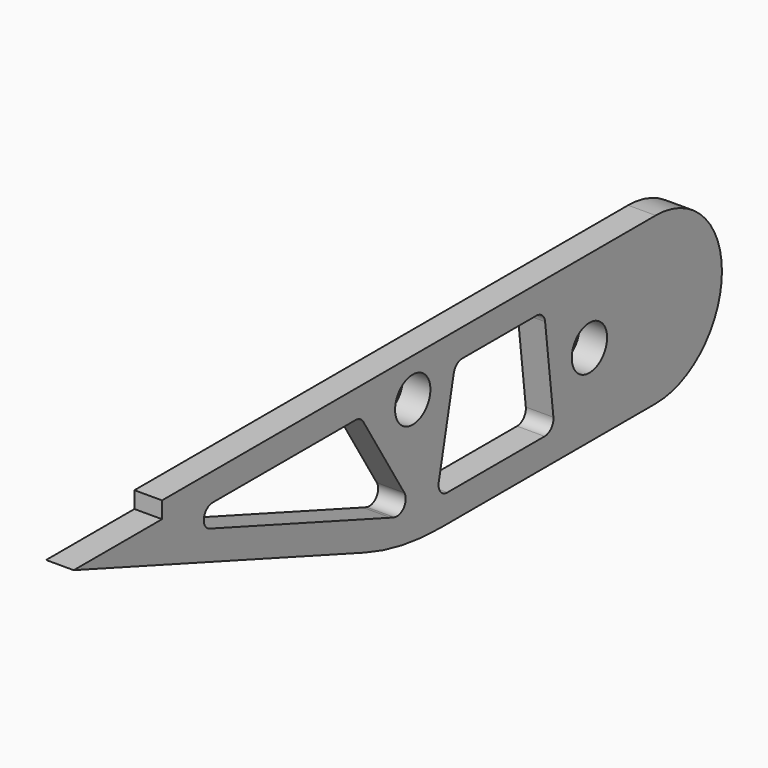
from build123d import *

# Parameters (mm, degrees)
F0_R     = 4
F1_DEPTH = 5
F3_DEPTH = 25


with BuildPart() as f1:
    # F0 (on Right) → F1 (new body)
    with BuildSketch(Plane.YZ):
        with BuildLine():
            Line((50, 15), (-61.757568, 15))
            Line((-61.757568, 15), (-61.757568, 12))
            Line((-61.757568, 12), (-81.757568, 12))
            Line((-81.757568, 12), (-15.860336, -11.984631))
            ThreePointArc((-15.860336, -11.984631), (-7.441737, -14.240388), (1.240672, -15))
            Line((1.240672, -15), (50, -15))
            ThreePointArc((50, -15), (65, 0), (50, 15))
        make_face()
        with Locations((35, 0)):
            Circle(F0_R, mode=Mode.SUBTRACT)
        with Locations((-5, 8)):
            Circle(F0_R, mode=Mode.SUBTRACT)
    extrude(amount=F1_DEPTH)

    # F2 (on face) → F3 (cut)
    with BuildSketch(Plane.YZ.offset(5)):
        with BuildLine():
            Line((-17.916537, 10), (-50.301027, 10))
            ThreePointArc((-50.301027, 10), (-52.270643, 8.347296), (-50.985068, 6.120615))
            Line((-50.985068, 6.120615), (-10.007906, -8.793852))
            ThreePointArc((-10.007906, -8.793852), (-9.597236, -8.938282), (-9.183521, -9.073739))
            ThreePointArc((-9.183521, -9.073739), (-7.004761, -8.396232), (-6.878676, -6.118051))
            Line((-6.878676, -6.118051), (-16.213294, 9.048315))
            ThreePointArc((-16.213294, 9.048315), (-16.940993, 9.745942), (-17.916537, 10))
        make_face()
        with BuildLine():
            Line((22.983953, 10), (6.245747, 10))
            ThreePointArc((6.245747, 10), (4.987106, 9.554292), (4.289451, 8.415823))
            Line((4.289451, 8.415823), (0.888546, -7.584177))
            ThreePointArc((0.888546, -7.584177), (1.29055, -9.258641), (2.844842, -10))
            Line((2.844842, -10), (24.864596, -10))
            ThreePointArc((24.864596, -10), (26.359077, -9.329108), (26.850922, -7.766527))
            Line((26.850922, -7.766527), (24.970279, 8.233473))
            ThreePointArc((24.970279, 8.233473), (24.31306, 9.494481), (22.983953, 10))
        make_face()
    extrude(amount=-F3_DEPTH, mode=Mode.SUBTRACT)


solid = f1.part
